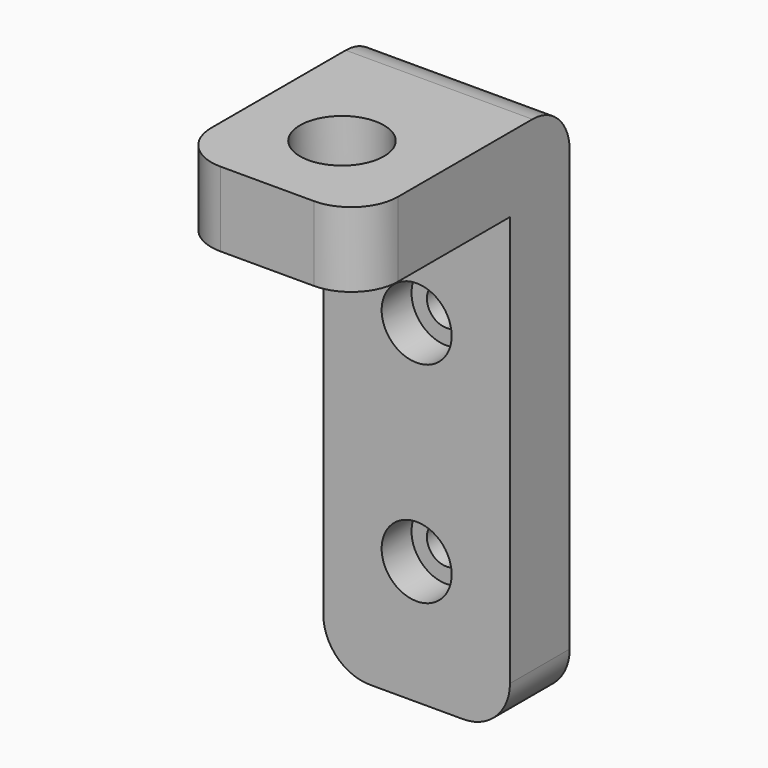
from build123d import *

# Parameters (mm, degrees)
F0_W     = 20
F0_H     = 49
F0_R     = 2.1
F1_DEPTH = 8
F2_R     = 3.75
F3_DEPTH = 4
F4_W     = 20
F4_H     = 8
F5_DEPTH = 28
F6_R     = 2.6
F7_DEPTH = 57.001
F8_R     = 4.5
F9_DEPTH = 5
F10_R    = 5


with BuildPart() as f1:
    # F0 (on Front) → F1 (new body)
    with BuildSketch(Plane.XZ):
        with Locations((0, 24.5)):
            Rectangle(F0_W, F0_H)
        with Locations((0, 13.25)):
            Circle(F0_R, mode=Mode.SUBTRACT)
        with Locations((0, 35.75)):
            Circle(F0_R, mode=Mode.SUBTRACT)
    extrude(amount=F1_DEPTH)

    # F2 (on face) → F3 (cut)
    with BuildSketch(Plane.XZ.offset(8)):
        with Locations((0, 35.75)):
            Circle(F2_R)
        with Locations((0, 13.25)):
            Circle(F2_R)
    extrude(amount=-F3_DEPTH, mode=Mode.SUBTRACT)

    # F4 (on face) → F5 (join)
    with BuildSketch(Plane(origin=(0, 0, 0), x_dir=(-1, 0, 0), z_dir=(0, 1, 0))):
        with Locations((0, 53)):
            Rectangle(F4_W, F4_H)
    extrude(amount=-F5_DEPTH)

    # F6 (on face) → F7 (cut, through all)
    with BuildSketch(Plane.XY.offset(57)):
        with Locations((0, -18)):
            Circle(F6_R)
    extrude(amount=-F7_DEPTH, mode=Mode.SUBTRACT)

    # F8 (on face) → F9 (cut)
    with BuildSketch(Plane.XY.offset(57)):
        with Locations((0, -18)):
            Circle(F8_R)
    extrude(amount=-F9_DEPTH, mode=Mode.SUBTRACT)

    # F10
    f10_edges = [f1.edges().sort_by_distance(p)[0] for p in [
        (10, -28, 53),
        (-10, -28, 53),
        (0, 0, 57),
        (10, -4, 0),
        (-10, -4, 0),
    ]]
    fillet(f10_edges, radius=F10_R)


solid = f1.part
